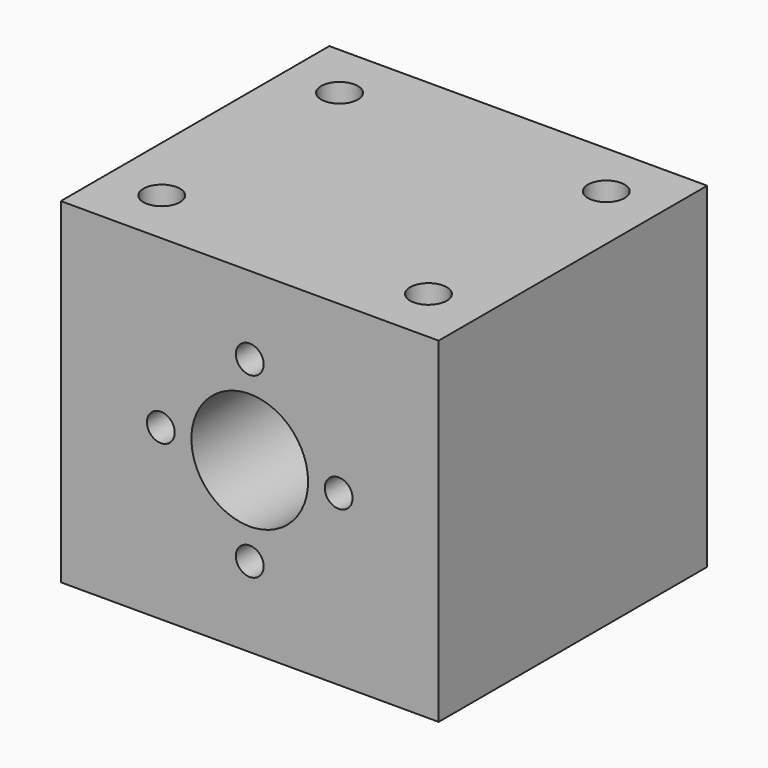
from build123d import *

# Parameters (mm, degrees)
SKETCH495_W       = 34
SKETCH495_H       = 30.2
PAD219_DEPTH      = 15
PAD219_DEPTH_BACK = 15.2
SKETCH726_R       = 1.65
HOLE001_DEPTH     = 20
HOLE001_TIPS_R    = 1.65
SKETCH727_R       = 5.25
POCKET255_DEPTH   = 30.2
SKETCH728_R       = 1.25
HOLE002_DEPTH     = 15
HOLE002_TIPS_R    = 1.25


with BuildPart() as part:
    # Sketch495 → Pad219 (new body, two sides)
    with BuildSketch(Plane.XY) as pad219_sk:
        Rectangle(SKETCH495_W, SKETCH495_H)
    extrude(amount=PAD219_DEPTH)
    extrude(pad219_sk.sketch, amount=-PAD219_DEPTH_BACK)

    # Sketch726 (on Face6 of Pad219) → Hole001 (cut)
    with BuildSketch(Plane.XY.offset(15)):
        with Locations((-12, 10)):
            Circle(SKETCH726_R)
        with Locations((12, 10)):
            Circle(SKETCH726_R)
        with Locations((12, -10)):
            Circle(SKETCH726_R)
        with Locations((-12, -10)):
            Circle(SKETCH726_R)
    extrude(amount=-HOLE001_DEPTH, mode=Mode.SUBTRACT)

    # Hole001 tips → Hole001 tip 1 section 0
    with BuildSketch(Plane.XY.offset(-5), mode=Mode.PRIVATE) as hole001_tip_1_s0:
        with Locations((-12, 10)):
            Circle(HOLE001_TIPS_R)
    loft([hole001_tip_1_s0.sketch, Vertex(-12, 10, -5.99142)], mode=Mode.SUBTRACT)

    # Hole001 tips → Hole001 tip 2 section 0
    with BuildSketch(Plane.XY.offset(-5), mode=Mode.PRIVATE) as hole001_tip_2_s0:
        with Locations((12, 10)):
            Circle(HOLE001_TIPS_R)
    loft([hole001_tip_2_s0.sketch, Vertex(12, 10, -5.99142)], mode=Mode.SUBTRACT)

    # Hole001 tips → Hole001 tip 3 section 0
    with BuildSketch(Plane.XY.offset(-5), mode=Mode.PRIVATE) as hole001_tip_3_s0:
        with Locations((12, -10)):
            Circle(HOLE001_TIPS_R)
    loft([hole001_tip_3_s0.sketch, Vertex(12, -10, -5.99142)], mode=Mode.SUBTRACT)

    # Hole001 tips → Hole001 tip 4 section 0
    with BuildSketch(Plane.XY.offset(-5), mode=Mode.PRIVATE) as hole001_tip_4_s0:
        with Locations((-12, -10)):
            Circle(HOLE001_TIPS_R)
    loft([hole001_tip_4_s0.sketch, Vertex(-12, -10, -5.99142)], mode=Mode.SUBTRACT)

    # Sketch727 (on Face3 of Hole001) → Pocket255 (cut)
    with BuildSketch(Plane.XZ.offset(15.1)):
        Circle(SKETCH727_R)
    extrude(amount=-POCKET255_DEPTH, mode=Mode.SUBTRACT)

    # Sketch728 (on Face3 of Pocket255) → Hole002 (cut)
    with BuildSketch(Plane.XZ.offset(15.1)):
        with Locations((0, 8)):
            Circle(SKETCH728_R)
        with Locations((8, 0)):
            Circle(SKETCH728_R)
        with Locations((0, -8)):
            Circle(SKETCH728_R)
        with Locations((-8, 0)):
            Circle(SKETCH728_R)
    extrude(amount=-HOLE002_DEPTH, mode=Mode.SUBTRACT)

    # Hole002 tips → Hole002 tip 1 section 0
    with BuildSketch(Plane.XZ.offset(0.1), mode=Mode.PRIVATE) as hole002_tip_1_s0:
        with Locations((0, 8)):
            Circle(HOLE002_TIPS_R)
    loft([hole002_tip_1_s0.sketch, Vertex(0, 0.651076, 8)], mode=Mode.SUBTRACT)

    # Hole002 tips → Hole002 tip 2 section 0
    with BuildSketch(Plane.XZ.offset(0.1), mode=Mode.PRIVATE) as hole002_tip_2_s0:
        with Locations((8, 0)):
            Circle(HOLE002_TIPS_R)
    loft([hole002_tip_2_s0.sketch, Vertex(8, 0.651076, 0)], mode=Mode.SUBTRACT)

    # Hole002 tips → Hole002 tip 3 section 0
    with BuildSketch(Plane.XZ.offset(0.1), mode=Mode.PRIVATE) as hole002_tip_3_s0:
        with Locations((0, -8)):
            Circle(HOLE002_TIPS_R)
    loft([hole002_tip_3_s0.sketch, Vertex(0, 0.651076, -8)], mode=Mode.SUBTRACT)

    # Hole002 tips → Hole002 tip 4 section 0
    with BuildSketch(Plane.XZ.offset(0.1), mode=Mode.PRIVATE) as hole002_tip_4_s0:
        with Locations((-8, 0)):
            Circle(HOLE002_TIPS_R)
    loft([hole002_tip_4_s0.sketch, Vertex(-8, 0.651076, 0)], mode=Mode.SUBTRACT)


with BuildPart() as part_1:
    # Body150 placement: moved
    add(part.part.moved(Location((0, 0, 16))))


solid = part_1.part
